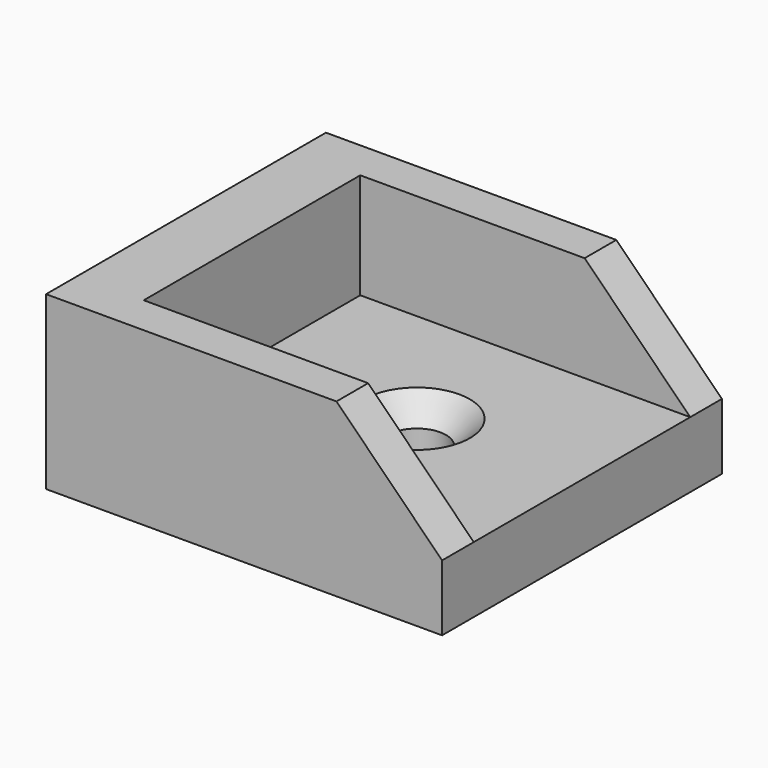
from build123d import *

# Parameters (mm, degrees)
SKETCH015_W         = 30
SKETCH015_H         = 50
PAD014_DEPTH        = 5
SKETCH016_W         = 50
SKETCH016_H         = 25
PAD013_DEPTH        = 5
PAD010_DEPTH        = 3
PAD011_DEPTH        = 1.5
PAD012_DEPTH        = 3
HOLE002_D           = 4.4
HOLE002_DEPTH       = 25
HOLE002_CSINK_D     = 8
HOLE002_CSINK_ANGLE = 90
SKETCH018_W         = 40.900608
SKETCH018_H         = 56.513194
POCKET001_DEPTH     = 25
SKETCH020_W         = 45.434352
SKETCH020_H         = 34.44481
POCKET002_DEPTH     = 23.5


with BuildPart() as part:
    # Sketch015 → Pad014 (new body)
    with BuildSketch(Plane.XY):
        with Locations((15, 25)):
            Rectangle(SKETCH015_W, SKETCH015_H)
    extrude(amount=PAD014_DEPTH)

    # Sketch016 → Pad013 (join)
    with BuildSketch(Plane(origin=(0, 0, 0), x_dir=(0, -1, 0), z_dir=(-1, 0, 0))):
        with Locations((-25, 17.5)):
            Rectangle(SKETCH016_W, SKETCH016_H)
    extrude(amount=-PAD013_DEPTH)

    # Sketch014 → Pad010 (join)
    with BuildSketch(Plane.XZ):
        Polygon((5, 5), (5, 30), (30, 5), align=None)
    extrude(amount=-PAD010_DEPTH)

    # Sketch017 → Pad011 (join, symmetric)
    with BuildSketch(Plane.XZ.offset(-25)):
        Polygon((5, 5), (5, 30), (30, 5), align=None)
    extrude(amount=PAD011_DEPTH, both=True)

    # Sketch013 → Pad012 (join)
    with BuildSketch(Plane.XZ.offset(-50)):
        Polygon((5, 30), (5, 5), (30, 5), align=None)
    extrude(amount=PAD012_DEPTH)

    # Hole002
    with Locations(Plane.XY.offset(5)):
        with Locations((17.5, 36.75), (17.5, 13.25)):
            CounterSinkHole(HOLE002_D / 2, HOLE002_CSINK_D / 2, depth=HOLE002_DEPTH, counter_sink_angle=HOLE002_CSINK_ANGLE)

    # Sketch018 → Pocket001 (cut)
    with BuildSketch(Plane.XY.offset(13)):
        with Locations((14.816534, 25.266581)):
            Rectangle(SKETCH018_W, SKETCH018_H)
    extrude(amount=POCKET001_DEPTH, mode=Mode.SUBTRACT)

    # Sketch020 → Pocket002 (cut)
    with BuildSketch(Plane.XZ):
        with Locations((13.859938, 7.463043)):
            Rectangle(SKETCH020_W, SKETCH020_H)
    extrude(amount=-POCKET002_DEPTH, mode=Mode.SUBTRACT)


solid = part.part
